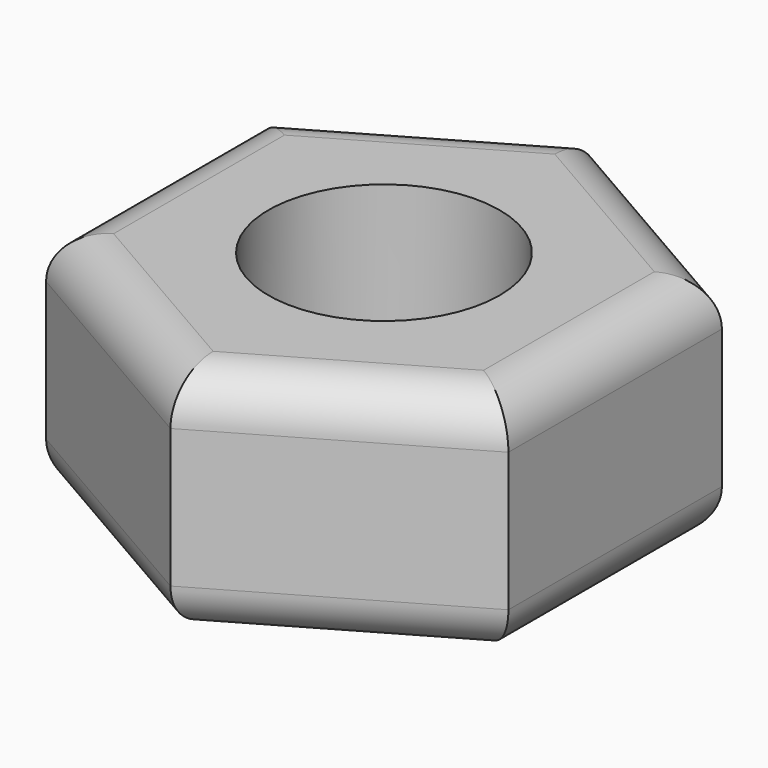
from build123d import *

# Parameters (mm, degrees)
F0_R     = 2.5
F1_DEPTH = 5
F2_R     = 1


with BuildPart() as f1:
    # F0 (on Top) → F1 (new body)
    with BuildSketch(Plane.XY):
        Polygon((0, -5.773503), (5, -2.886751), (5, 2.886751), (0, 5.773503), (-5, 2.886751), (-5, -2.886751), align=None)
        Circle(F0_R, mode=Mode.SUBTRACT)
    extrude(amount=F1_DEPTH)

    # F2
    f2_edges = [f1.edges().sort_by_distance(p)[0] for p in [
        (5, 0, 5),
        (2.5, -4.330127, 5),
        (-2.5, -4.330127, 5),
        (-5, 0, 5),
        (-2.5, 4.330127, 5),
        (2.5, 4.330127, 5),
        (5, 0, 0),
        (2.5, -4.330127, 0),
        (-2.5, -4.330127, 0),
        (2.5, 4.330127, 0),
        (-2.5, 4.330127, 0),
        (-5, 0, 0),
    ]]
    fillet(f2_edges, radius=F2_R)


solid = f1.part
